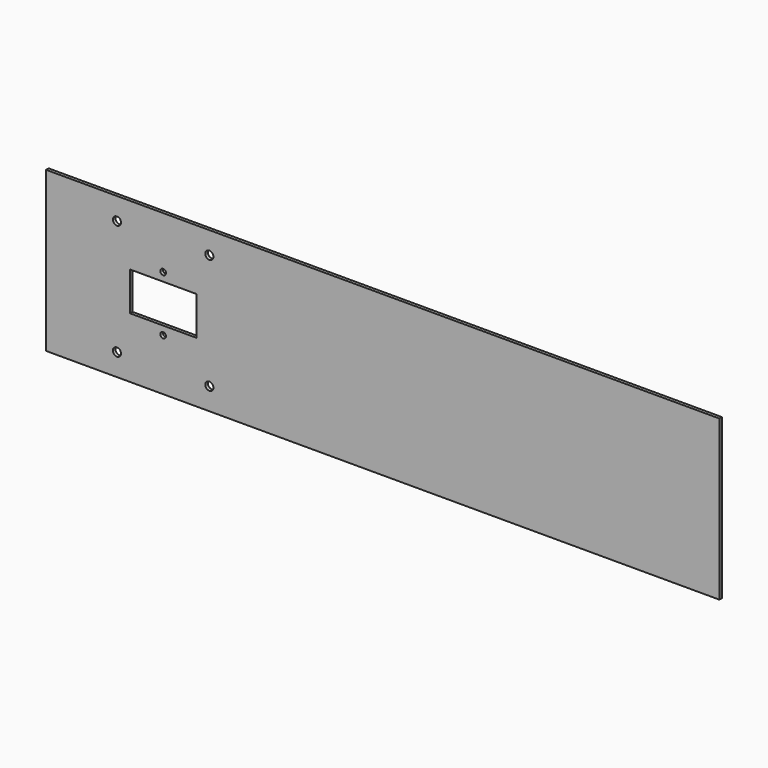
from build123d import *

# Parameters (mm, degrees)
F0_W     = 482.6
F0_H     = 114.3
F0_R     = 2.921
F0_R_2   = 2.032
F0_W_2   = 47.498
F0_H_2   = 27.686
F1_DEPTH = 2.286


with BuildPart() as f1:
    # F0 (on Front) → F1 (new body)
    with BuildSketch(Plane.XZ):
        with Locations((157.3911, 0)):
            Rectangle(F0_W, F0_H)
        with Locations((-33.1089, -41.3258)):
            Circle(F0_R, mode=Mode.SUBTRACT)
        with Locations((33.1089, -41.3258)):
            Circle(F0_R, mode=Mode.SUBTRACT)
        with Locations((0, -19.939)):
            Circle(F0_R_2, mode=Mode.SUBTRACT)
        Rectangle(F0_W_2, F0_H_2, mode=Mode.SUBTRACT)
        with Locations((0, 19.939)):
            Circle(F0_R_2, mode=Mode.SUBTRACT)
        with Locations((-33.1089, 41.3258)):
            Circle(F0_R, mode=Mode.SUBTRACT)
        with Locations((33.1089, 41.3258)):
            Circle(F0_R, mode=Mode.SUBTRACT)
    extrude(amount=F1_DEPTH)


solid = f1.part
